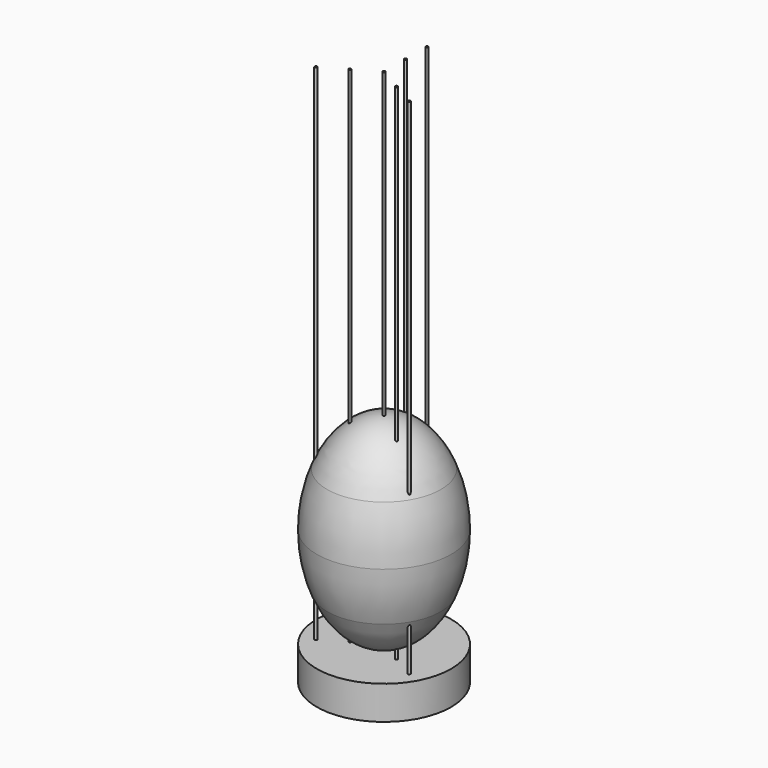
from build123d import *

# Parameters (mm, degrees)
F1_R     = 50
F2_DEPTH = 25
F0_R     = 1
F3_DEPTH = 200
F4_DEPTH = 400


with BuildPart() as f2:
    # F1 (on Top) → F2 (new body)
    with BuildSketch(Plane.XY):
        Circle(F1_R)
    extrude(amount=F2_DEPTH)

    # F0 (on Top) → F3 (cut)
    with BuildSketch(Plane.XY):
        with Locations((0, 40)):
            Circle(F0_R)
        with Locations((0, 20)):
            Circle(F0_R)
        with Locations((-17.320508, -10)):
            Circle(F0_R)
        with Locations((-34.641016, -20)):
            Circle(F0_R)
        with Locations((17.320508, -10)):
            Circle(F0_R)
        with Locations((34.641016, -20)):
            Circle(F0_R)
        Circle(F0_R)
    extrude(amount=F3_DEPTH, mode=Mode.SUBTRACT)


with BuildPart() as f4:
    # F0 (on Top) → F4 (new body)
    with BuildSketch(Plane.XY):
        with Locations((0, 40)):
            Circle(F0_R)
        with Locations((0, 20)):
            Circle(F0_R)
        with Locations((-17.320508, -10)):
            Circle(F0_R)
        with Locations((-34.641016, -20)):
            Circle(F0_R)
        with Locations((17.320508, -10)):
            Circle(F0_R)
        with Locations((34.641016, -20)):
            Circle(F0_R)
        Circle(F0_R)
    extrude(amount=F4_DEPTH)


with BuildPart() as f6:
    # F5 (on Front) → F6 (revolve)
    with BuildSketch(Plane.XZ):
        with BuildLine():
            add(Edge.make_bspline(
                [(0, 175), (-27.583864, 175), (-42.295258, 140)],
                knots=[3.141593, 3.141593, 3.141593, 4.149853, 4.149853, 4.149853], degree=2, weights=[1, 0.875595, 1]))
            Line((-42.295258, 140), (0, 140))
            Line((0, 140), (0, 175))
        make_face()
    revolve(axis=Axis((0, 0, 131.283586), (0, 0, 1)))


with BuildPart() as f7:
    # F5 (on Front) → F7 (revolve)
    with BuildSketch(Plane.XZ):
        with BuildLine():
            add(Edge.make_bspline(
                [(-42.295258, 140), (-50, 121.669586), (-50, 100)],
                knots=[4.149853, 4.149853, 4.149853, 4.712389, 4.712389, 4.712389], degree=2, weights=[1, 0.960704, 1]))
            Line((-50, 100), (0, 100))
            Line((0, 100), (0, 140))
            Line((0, 140), (-42.295258, 140))
        make_face()
    revolve(axis=Axis((0, 0, 100), (0, 0, -1)))


with BuildPart() as f8:
    # F5 (on Front) → F8 (revolve)
    with BuildSketch(Plane.XZ):
        with BuildLine():
            add(Edge.make_bspline(
                [(-50, 100), (-50, 78.330414), (-42.295258, 60)],
                knots=[4.712389, 4.712389, 4.712389, 5.274925, 5.274925, 5.274925], degree=2, weights=[1, 0.960704, 1]))
            Line((-42.295258, 60), (0, 60))
            Line((0, 60), (0, 100))
            Line((0, 100), (-50, 100))
        make_face()
    revolve(axis=Axis((0, 0, 100), (0, 0, -1)))


with BuildPart() as f9:
    # F5 (on Front) → F9 (revolve)
    with BuildSketch(Plane.XZ):
        with BuildLine():
            add(Edge.make_bspline(
                [(-42.295258, 60), (-27.583864, 25), (0, 25)],
                knots=[5.274925, 5.274925, 5.274925, 6.283185, 6.283185, 6.283185], degree=2, weights=[1, 0.875595, 1]))
            Line((0, 25), (0, 60))
            Line((0, 60), (-42.295258, 60))
        make_face()
    revolve(axis=Axis((0, 0, 100), (0, 0, -1)))


solid = Compound([f2.part, f4.part, f6.part, f7.part, f8.part, f9.part])
